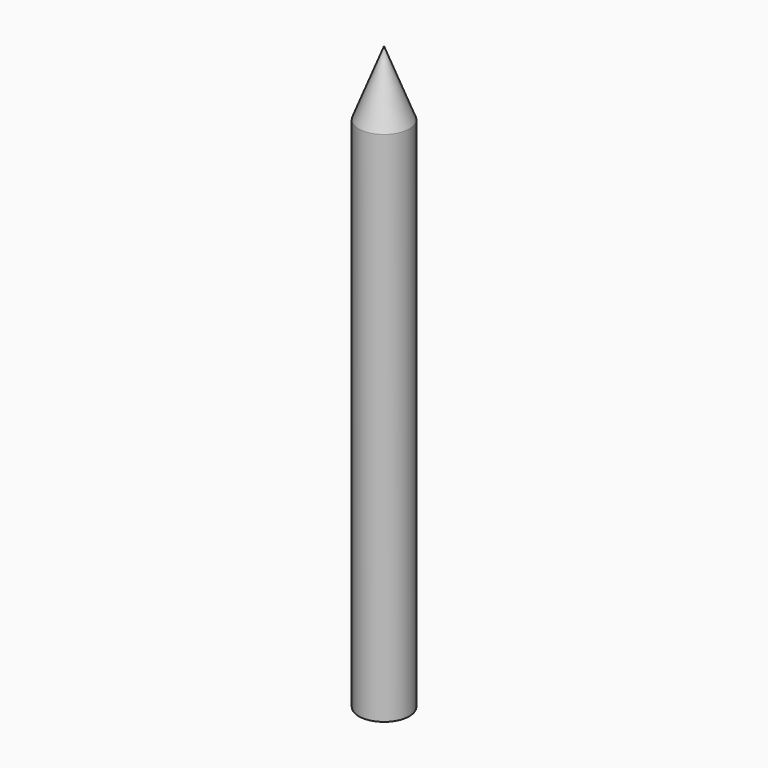
from build123d import *

# Parameters (mm, degrees)
F0_W = 19.5
F0_H = 400


with BuildPart() as f1:
    # F0 (on Front) → F1 (revolve)
    with BuildSketch(Plane.XZ):
        with Locations((9.75, 0)):
            Rectangle(F0_W, F0_H)
        Polygon((0, 200), (19.5, 200), (0, 250), align=None)
    revolve(axis=Axis((0, 0, 25), (0, 0, -1)))


solid = f1.part
